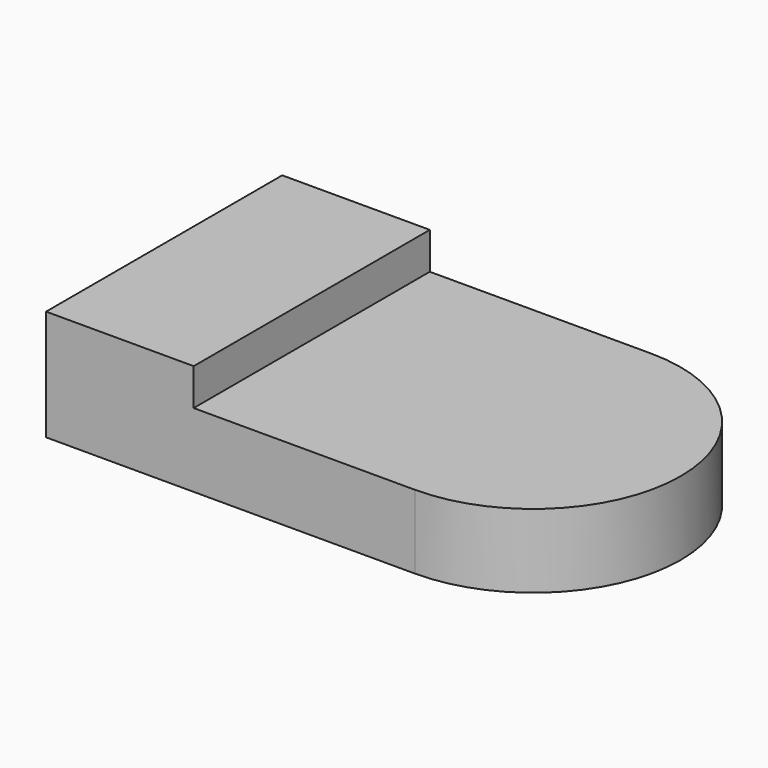
from build123d import *

# Parameters (mm, degrees)
PAD_DEPTH    = 10
SKETCH001_W  = 20
SKETCH001_H  = 40
PAD001_DEPTH = 5


with BuildPart() as part:
    # Sketch → Pad (new body)
    with BuildSketch(Plane.XY):
        with BuildLine():
            Line((-25, -20), (25, -20))
            ThreePointArc((25, -20), (45, 0), (25, 20))
            Line((25, 20), (-25, 20))
            Line((-25, 20), (-25, -20))
        make_face()
    extrude(amount=PAD_DEPTH)

    # Sketch001 (on Face6 of Pad) → Pad001 (join, symmetric)
    with BuildSketch(Plane.XY.offset(10)):
        with Locations((-15, 0)):
            Rectangle(SKETCH001_W, SKETCH001_H)
    extrude(amount=PAD001_DEPTH, both=True)


solid = part.part
